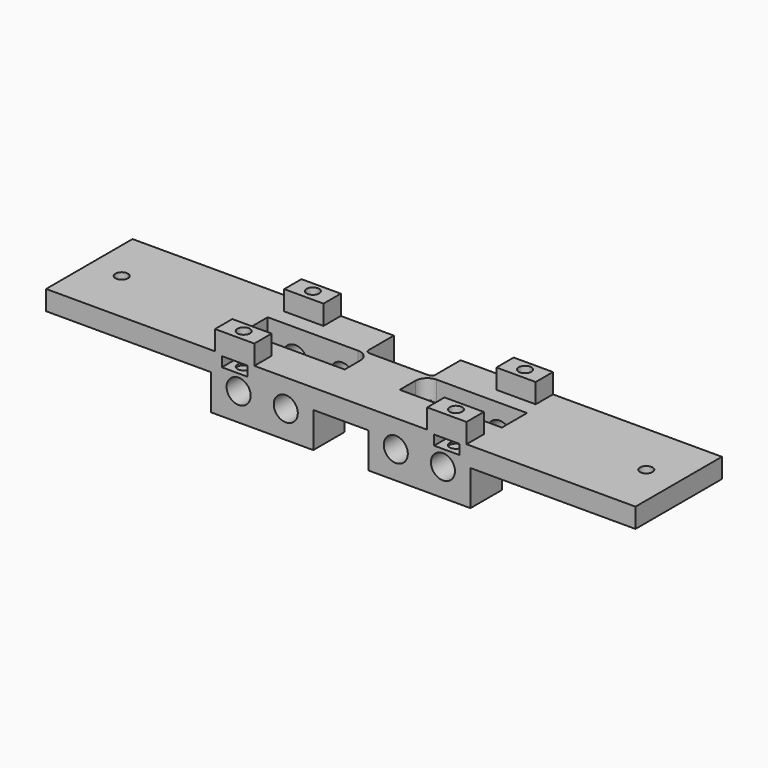
from build123d import *

# Parameters (mm, degrees)
SKETCH034_R     = 3.0625
PAD004_DEPTH    = 27.5
SKETCH_R        = 1.6
POCKET_DEPTH    = 5
POCKET021_DEPTH = 2
SKETCH036_W     = 26
SKETCH036_H     = 8
POCKET022_DEPTH = 14
SKETCH037_W     = 10
SKETCH037_H     = 5.5
PAD005_DEPTH    = 5
SKETCH038_R     = 1.6
POCKET023_DEPTH = 8.5
SKETCH039_W     = 6.5
SKETCH039_H     = 2.5
POCKET024_DEPTH = 6.5
SKETCH040_W     = 6.5
SKETCH040_H     = 2.5
POCKET025_DEPTH = 6.5
SKETCH041_W     = 17
SKETCH041_H     = 14
POCKET026_DEPTH = 9
FILLET_R        = 1
FILLET001_R     = 3


with BuildPart() as part:
    # Sketch034 → Pad004 (new body)
    with BuildSketch(Plane.XZ):
        Polygon((33, -7), (33, 2), (75, 2), (75, 7), (-75, 7), (-75, 2), (-33, 2), (-33, -7), (-7, -7), (-7, 2), (7, 2), (7, -7), align=None)
        with Locations((-14, 0)):
            Circle(SKETCH034_R, mode=Mode.SUBTRACT)
        with Locations((14, 0)):
            Circle(SKETCH034_R, mode=Mode.SUBTRACT)
        with Locations((-26, 0)):
            Circle(SKETCH034_R, mode=Mode.SUBTRACT)
        with Locations((26, 0)):
            Circle(SKETCH034_R, mode=Mode.SUBTRACT)
    extrude(amount=PAD004_DEPTH)

    # Sketch (on Face4 of Pad004) → Pocket (cut)
    with BuildSketch(Plane(origin=(0, 0, 7), x_dir=(-1, 0, 0), z_dir=(0, 0, 1))):
        with Locations((-66.75, 13.75)):
            Circle(SKETCH_R)
        with Locations((66.75, 13.75)):
            Circle(SKETCH_R)
    extrude(amount=-POCKET_DEPTH, mode=Mode.SUBTRACT)

    # Sketch035 (on Face3 of Pocket) → Pocket021 (cut)
    with BuildSketch(Plane(origin=(0, 0, 2), x_dir=(1, 0, 0), z_dir=(0, 0, -1))):
        Polygon((-63.5, 13.75), (-65.125, 16.5645825623), (-68.375, 16.5645825623), (-70, 13.75), (-68.375, 10.9354174377), (-65.125, 10.9354174377), align=None)
        Polygon((70, 13.75), (68.375, 16.5645825623), (65.125, 16.5645825623), (63.5, 13.75), (65.125, 10.9354174377), (68.375, 10.9354174377), align=None)
    extrude(amount=-POCKET021_DEPTH, mode=Mode.SUBTRACT)

    # Sketch036 (on Face14 of Pocket021) → Pocket022 (cut)
    with BuildSketch(Plane(origin=(0, 0, 7), x_dir=(-1, 0, 0), z_dir=(0, 0, 1))):
        with Locations((-20, 13.5)):
            Rectangle(SKETCH036_W, SKETCH036_H)
        with Locations((20, 13.5)):
            Rectangle(SKETCH036_W, SKETCH036_H)
    extrude(amount=-POCKET022_DEPTH, mode=Mode.SUBTRACT)

    # Sketch037 (on Face7 of Pocket022) → Pad005 (join)
    with BuildSketch(Plane(origin=(0, 0, 7), x_dir=(-1, 0, 0), z_dir=(0, 0, 1))):
        with Locations((-27, 24.75)):
            Rectangle(SKETCH037_W, SKETCH037_H)
        with Locations((27, 24.75)):
            Rectangle(SKETCH037_W, SKETCH037_H)
        with Locations((-27, 2.75)):
            Rectangle(SKETCH037_W, SKETCH037_H)
        with Locations((27, 2.75)):
            Rectangle(SKETCH037_W, SKETCH037_H)
    extrude(amount=PAD005_DEPTH)

    # Sketch038 (on Face70 of Pad005) → Pocket023 (cut)
    with BuildSketch(Plane(origin=(0, 0, 12), x_dir=(-1, 0, 0), z_dir=(0, 0, 1))):
        with Locations((-27, 24.625)):
            Circle(SKETCH038_R)
        with Locations((-27, 2.625)):
            Circle(SKETCH038_R)
        with Locations((27, 24.625)):
            Circle(SKETCH038_R)
        with Locations((27, 2.625)):
            Circle(SKETCH038_R)
    extrude(amount=-POCKET023_DEPTH, mode=Mode.SUBTRACT)

    # Sketch039 (on Face2 of Pocket023) → Pocket024 (cut)
    with BuildSketch(Plane(origin=(0, 0, 0), x_dir=(1, 0, 0), z_dir=(0, 1, 0))):
        with Locations((-27, -5.25)):
            Rectangle(SKETCH039_W, SKETCH039_H)
        with Locations((27, -5.25)):
            Rectangle(SKETCH039_W, SKETCH039_H)
    extrude(amount=-POCKET024_DEPTH, mode=Mode.SUBTRACT)

    # Sketch040 (on Face31 of Pocket024) → Pocket025 (cut)
    with BuildSketch(Plane.XZ.offset(27.5)):
        with Locations((-27, 5.25)):
            Rectangle(SKETCH040_W, SKETCH040_H)
        with Locations((27, 5.25)):
            Rectangle(SKETCH040_W, SKETCH040_H)
    extrude(amount=-POCKET025_DEPTH, mode=Mode.SUBTRACT)

    # Sketch041 (on Face2 of Pocket025) → Pocket026 (cut)
    with BuildSketch(Plane(origin=(0, 0, 0), x_dir=(1, 0, 0), z_dir=(0, 1, 0))):
        Rectangle(SKETCH041_W, SKETCH041_H)
    extrude(amount=-POCKET026_DEPTH, mode=Mode.SUBTRACT)

    # Fillet
    fillet_edges = [part.edges().sort_by_distance(p)[0] for p in [
        (8.5, -9, 0),
        (-8.5, -9, 0),
    ]]
    fillet(fillet_edges, radius=FILLET_R)

    # Fillet001
    fillet001_edges = [part.edges().sort_by_distance(p)[0] for p in [
        (7, -9.5, 4.5),
        (-7, -9.5, 4.5),
    ]]
    fillet(fillet001_edges, radius=FILLET001_R)


solid = part.part
